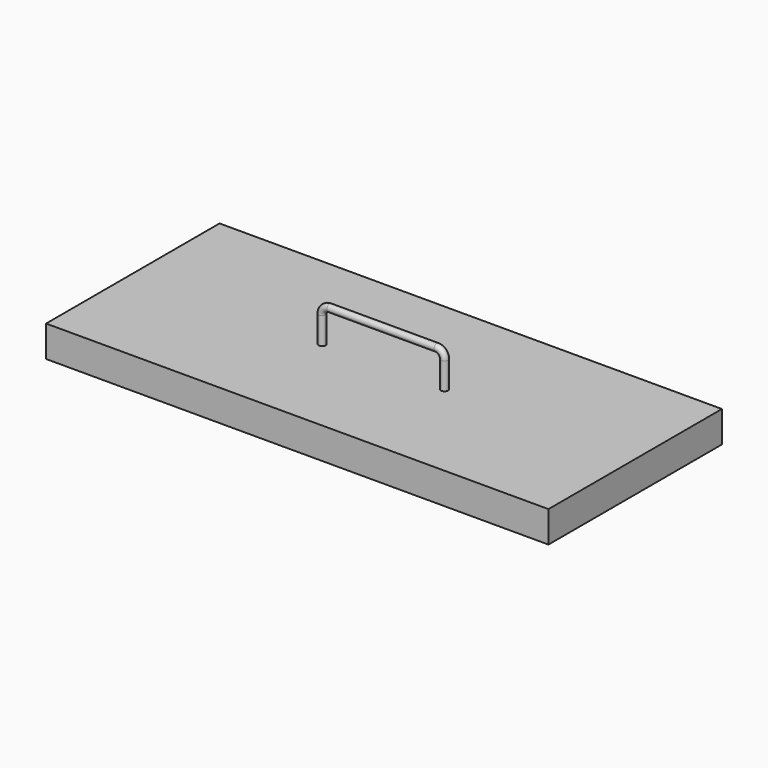
from build123d import *

# Parameters (mm, degrees)
F0_W     = 563
F0_H     = 243
F1_DEPTH = 35
F2_T     = -1.5
F5_R     = 4


with BuildPart() as f1:
    # F0 (on Top) → F1 (new body)
    with BuildSketch(Plane.XY):
        with Locations((184.3085842729, 121.5)):
            Rectangle(F0_W, F0_H)
    extrude(amount=-F1_DEPTH)

    # F2
    f2_openings = [f1.faces().sort_by_distance(p)[0] for p in [
        (184.308584, 121.5, -35),
    ]]
    offset(amount=F2_T, openings=f2_openings)

    # F6: sweep along a path in F4
    with BuildLine(Plane.XZ.offset(-121.5)) as f6_path:
        Line((114.3085842729, 0), (114.3085842729, 30))
        ThreePointArc((114.3085842729, 30), (117.237516461, 37.0710678119), (124.3085842729, 40))
        Line((124.3085842729, 40), (244.3085842729, 40))
        ThreePointArc((244.3085842729, 40), (251.3796520847, 37.0710678119), (254.3085842729, 30))
        Line((254.3085842729, 30), (254.3085842729, 0))
    # F5 (on face) → F6 (sweep)
    with BuildSketch(Plane.XY):
        with Locations((115.6852245331, 120.5054670572)):
            Circle(F5_R)
    sweep(path=f6_path.line)


solid = f1.part
